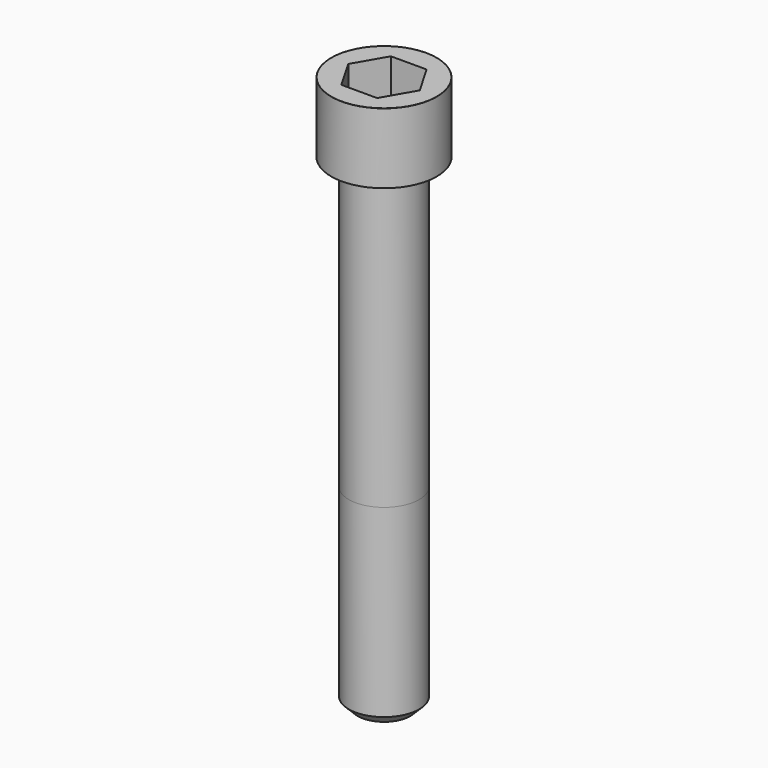
from build123d import *

# Parameters (mm, degrees)
POCKET_DEPTH = 14.08


with BuildPart() as part:
    # Sketch → Revolve (revolve)
    with BuildSketch(Plane.YZ):
        with BuildLine():
            Line((7.999, 0), (12, 0))
            Line((12, 0), (12, 15.97229))
            ThreePointArc((12, 15.97229), (11.991884, 15.991884), (11.97229, 16))
            Line((11.97229, 16), (0, 16))
            Line((0, -110), (0, 16))
            Line((6, -110), (0, -110))
            Line((8, -108), (6, -110))
            Line((8, -66), (8, -108))
            Line((7.999, 0), (8, -66))
        make_face()
    revolve(axis=Axis((0, 0, 0), (0, 0, 1)))

    # Sketch001 → Pocket (cut)
    with BuildSketch(Plane.XY.offset(16)):
        Polygon((8.129092, 0), (4.064546, 7.04), (-4.064546, 7.04), (-8.129092, 0), (-4.064546, -7.04), (4.064546, -7.04), align=None)
    extrude(amount=-POCKET_DEPTH, mode=Mode.SUBTRACT)


solid = part.part
